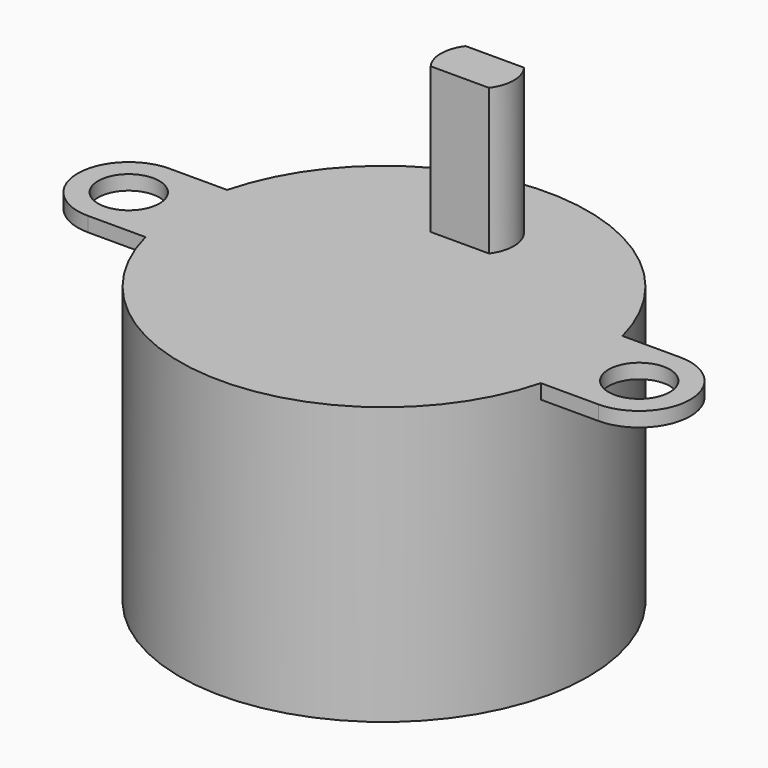
from build123d import *

# Parameters (mm, degrees)
SKETCH_R     = 14
PAD_DEPTH    = 19
PAD001_DEPTH = 10
SKETCH002_R  = 2.1
PAD002_DEPTH = 1


with BuildPart() as part:
    # Sketch → Pad (new body)
    with BuildSketch(Plane.XY):
        Circle(SKETCH_R)
    extrude(amount=PAD_DEPTH)

    # Sketch001 → Pad001 (new body)
    with BuildSketch(Plane.XY.offset(19)):
        with BuildLine():
            ThreePointArc((-2, 9.5), (-2.5, 8), (-2, 6.5))
            Line((2, 6.5), (-2, 6.5))
            ThreePointArc((2, 6.5), (2.5, 8), (2, 9.5))
            Line((-2, 9.5), (2, 9.5))
        make_face()
    extrude(amount=PAD001_DEPTH)

    # Sketch002 → Pad002 (new body)
    with BuildSketch(Plane.XY.offset(19)):
        with BuildLine():
            ThreePointArc((-17.5, 3.5), (-21, 0), (-17.5, -3.5))
            Line((-17.5, -3.5), (17.5, -3.5))
            ThreePointArc((17.5, -3.5), (21, 0), (17.5, 3.5))
            Line((-17.5, 3.5), (17.5, 3.5))
        make_face()
        with Locations((-17.5, 0)):
            Circle(SKETCH002_R, mode=Mode.SUBTRACT)
        with Locations((17.5, 0)):
            Circle(SKETCH002_R, mode=Mode.SUBTRACT)
    extrude(amount=-PAD002_DEPTH)


solid = part.part
